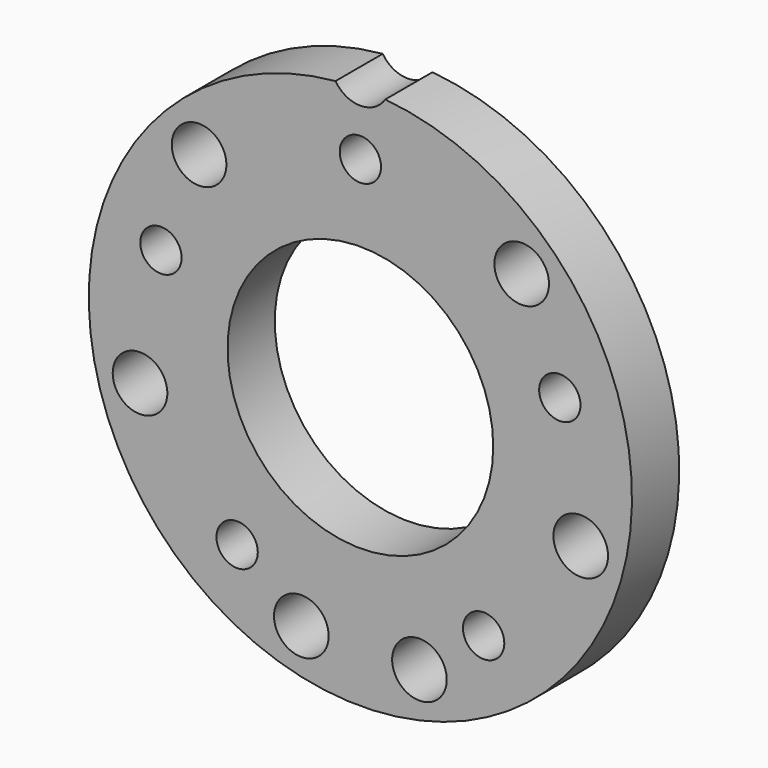
from build123d import *

# Parameters (mm, degrees)
F0_R     = 18.4
F0_R_2   = 1.4
F0_R_3   = 9
F1_DEPTH = 4
F2_R     = 1.85
F3_DEPTH = 25
F5_DEPTH = 25


with BuildPart() as f1:
    # F0 (on Front) → F1 (new body)
    with BuildSketch(Plane.XZ):
        Circle(F0_R)
        with Locations((-8.35, -11.4927890359)):
            Circle(F0_R_2, mode=Mode.SUBTRACT)
        with Locations((8.35, -11.4927890359)):
            Circle(F0_R_2, mode=Mode.SUBTRACT)
        with Locations((-13.5105838061, 4.3898547862)):
            Circle(F0_R_2, mode=Mode.SUBTRACT)
        Circle(F0_R_3, mode=Mode.SUBTRACT)
        with Locations((13.5105838061, 4.3898547862)):
            Circle(F0_R_2, mode=Mode.SUBTRACT)
        with Locations((0, 14.2058684995)):
            Circle(F0_R_2, mode=Mode.SUBTRACT)
    extrude(amount=-F1_DEPTH)

    # F2 (on face) → F3 (cut)
    with BuildSketch(Plane(origin=(0, 4, 0), x_dir=(-1, 0, 0), z_dir=(0, 1, 0))):
        with Locations((-14.9282032303, -4)):
            Circle(F2_R)
        with Locations((-10.9282032303, 10.9282032303)):
            Circle(F2_R)
        with Locations((14.9282032303, -4)):
            Circle(F2_R)
        with Locations((10.9282032303, 10.9282032303)):
            Circle(F2_R)
        with Locations((4, -14.9282032303)):
            Circle(F2_R)
        with Locations((-4, -14.9282032303)):
            Circle(F2_R)
    extrude(amount=-F3_DEPTH, mode=Mode.SUBTRACT)

    # F4 (on face) → F5 (cut)
    with BuildSketch(Plane.XZ):
        with BuildLine():
            ThreePointArc((1.6850467371, 18.3226804124), (0, 18.4), (-1.6850467371, 18.3226804124))
            ThreePointArc((-1.6850467371, 18.3226804124), (0, 17.4), (1.6850467371, 18.3226804124))
        make_face()
    extrude(amount=-F5_DEPTH, mode=Mode.SUBTRACT)


solid = f1.part
